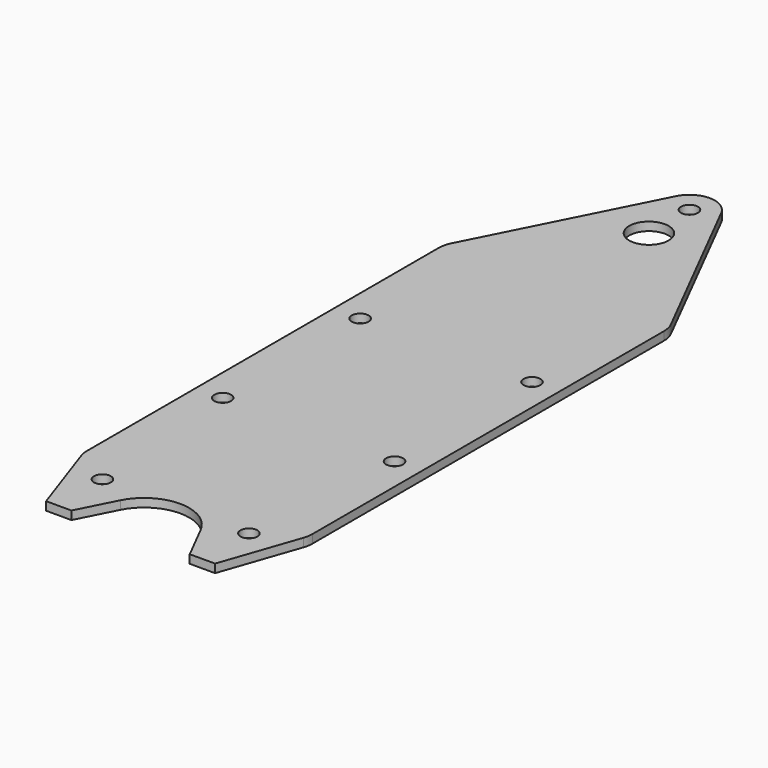
from build123d import *

# Parameters (mm, degrees)
F0_R     = 1.5
F0_R_2   = 3.5
F1_DEPTH = 1.5


with BuildPart() as f1:
    # F0 (on Top) → F1 (new body)
    with BuildSketch(Plane.XY):
        with BuildLine():
            Line((19.459683, 40.815835), (4.013715, 71.284722))
            ThreePointArc((4.013715, 71.284722), (0, 73.75), (-4.013715, 71.284722))
            Line((-4.013715, 71.284722), (-19.459683, 40.815835))
            ThreePointArc((-19.459683, 40.815835), (-19.863045, 39.717269), (-20, 38.555033))
            Line((-20, 38.555033), (-20, -39.412138))
            ThreePointArc((-20, -39.412138), (-19.931243, -40.238478), (-19.726865, -41.042092))
            Line((-19.726865, -41.042092), (-15, -54.75))
            Line((-15, -54.75), (-10.5, -54.75))
            Line((-10.5, -54.75), (-7.131177, -48.124215))
            ThreePointArc((-7.131177, -48.124215), (0, -43.75), (7.131177, -48.124215))
            Line((7.131177, -48.124215), (10.5, -54.75))
            Line((10.5, -54.75), (15, -54.75))
            Line((15, -54.75), (19.726865, -41.042092))
            ThreePointArc((19.726865, -41.042092), (19.931243, -40.238478), (20, -39.412138))
            Line((20, -39.412138), (20, 38.555033))
            ThreePointArc((20, 38.555033), (19.863045, 39.717269), (19.459683, 40.815835))
        make_face()
        with Locations((-13, -44.75)):
            Circle(F0_R, mode=Mode.SUBTRACT)
        with Locations((-15.25, -15.25)):
            Circle(F0_R, mode=Mode.SUBTRACT)
        with Locations((13, -44.75)):
            Circle(F0_R, mode=Mode.SUBTRACT)
        with Locations((15.25, -15.25)):
            Circle(F0_R, mode=Mode.SUBTRACT)
        with Locations((-15.25, 15.25)):
            Circle(F0_R, mode=Mode.SUBTRACT)
        with Locations((15.25, 15.25)):
            Circle(F0_R, mode=Mode.SUBTRACT)
        with Locations((0, 60.25)):
            Circle(F0_R_2, mode=Mode.SUBTRACT)
        with Locations((0, 69.25)):
            Circle(F0_R, mode=Mode.SUBTRACT)
    extrude(amount=F1_DEPTH)


solid = f1.part
